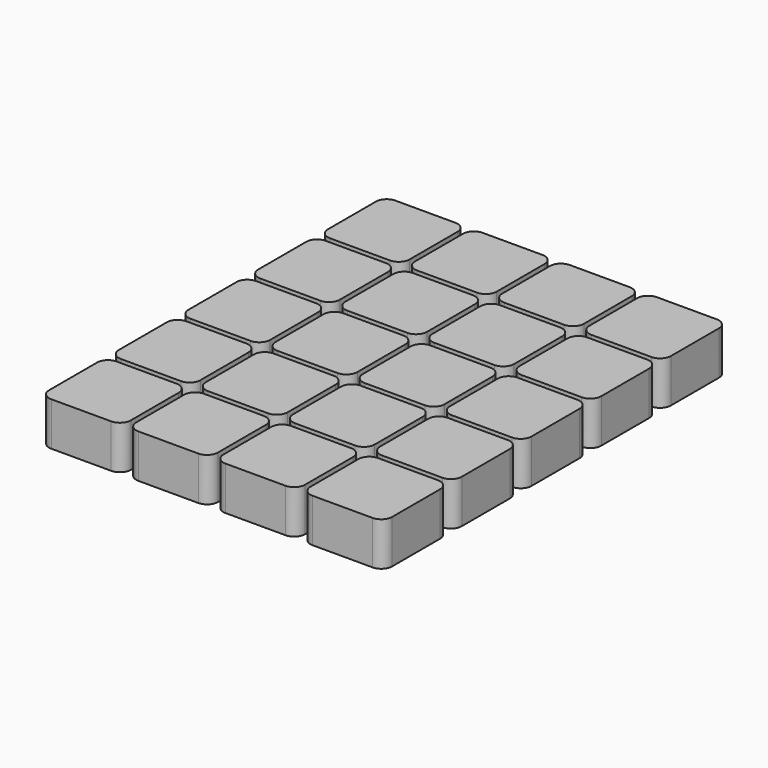
from build123d import *

# Parameters (mm, degrees)
SKETCH007_W   = 15
SKETCH007_H   = 15
PAD004_DEPTH  = 8
FILLET004_R   = 2
ARRAY_X_COUNT = 4
ARRAY_X_PITCH = 16
ARRAY_Y_COUNT = 5
ARRAY_Y_PITCH = 16


with BuildPart() as part:
    # Sketch007 → Pad004 (new body)
    with BuildSketch(Plane.XY.offset(7)):
        with Locations((-24, 22.085346)):
            Rectangle(SKETCH007_W, SKETCH007_H)
    extrude(amount=PAD004_DEPTH)

    # Fillet004
    fillet004_edges = [part.edges().sort_by_distance(p)[0] for p in [
        (-16.5, 14.585346, 11),
        (-16.5, 29.585346, 11),
        (-31.5, 29.585346, 11),
        (-31.5, 14.585346, 11),
    ]]
    fillet(fillet004_edges, radius=FILLET004_R)

    # Array X: part ×4


with BuildPart() as part_1:
    add(part.part)
    with Locations(*[(i * ARRAY_X_PITCH, 0, 0) for i in range(1, ARRAY_X_COUNT)]):
        add(part.part)

    # Array Y: part ×5


with BuildPart() as part_2:
    add(part_1.part)
    with Locations(*[(0, -i * ARRAY_Y_PITCH, 0) for i in range(1, ARRAY_Y_COUNT)]):
        add(part_1.part)


solid = part_2.part
